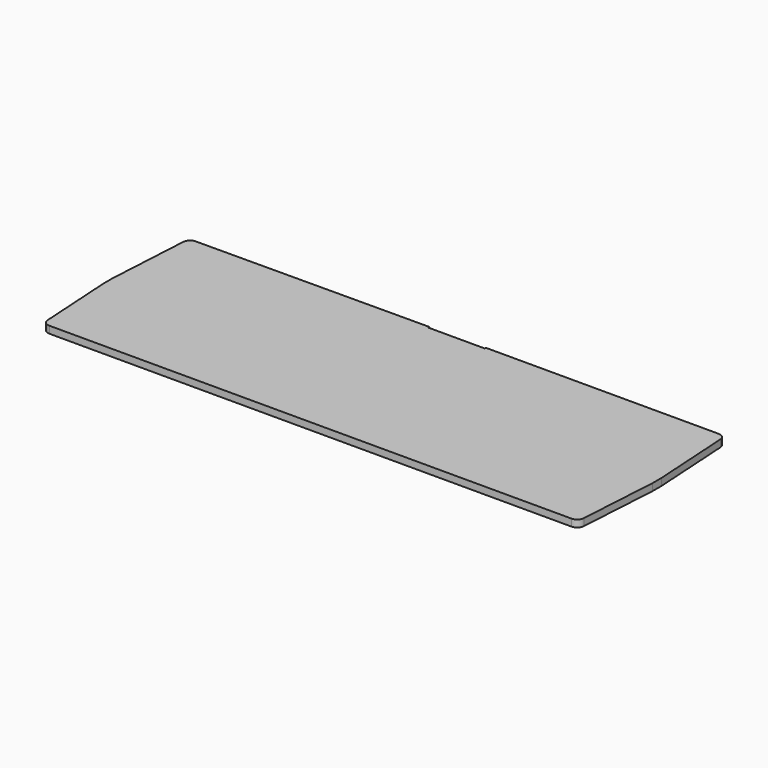
from build123d import *

# Parameters (mm, degrees)
F1_DEPTH = 2.5


with BuildPart() as f1:
    # F0 (on Top) → F1 (new body)
    with BuildSketch(Plane.XY):
        with BuildLine():
            Line((10, 32), (0, 32))
            Line((0, 32), (-10, 32))
            Line((-10, 32), (-10, 32.5))
            Line((-10, 32.5), (-91.037364, 32.141307))
            Line((-91.037364, 32.141307), (-92.348252, 32.141307))
            ThreePointArc((-92.348252, 32.141307), (-94.065235, 31.458439), (-94.84424, 29.782882))
            Line((-94.84424, 29.782882), (-96.5, 0.591573))
            Line((-96.5, 0.591573), (-96.5, -1.408427))
            Line((-96.5, -1.408427), (-96.5, -3.408427))
            Line((-96.5, -3.408427), (-94.864255, -30.152621))
            ThreePointArc((-94.864255, -30.152621), (-94.081875, -31.820927), (-92.368918, -32.5))
            Line((-92.368918, -32.5), (0, -32.5))
            Line((0, -32.5), (92.282775, -32.5))
            ThreePointArc((92.282775, -32.5), (93.995732, -31.820927), (94.778112, -30.152621))
            Line((94.778112, -30.152621), (96.5, -2))
            Line((96.5, -2), (96.5, 0))
            Line((96.5, 0), (96.5, 2))
            Line((96.5, 2), (94.778112, 30.152621))
            ThreePointArc((94.778112, 30.152621), (93.995732, 31.820927), (92.282775, 32.5))
            Line((92.282775, 32.5), (10, 32.5))
            Line((10, 32.5), (10, 32))
        make_face()
    extrude(amount=F1_DEPTH)


solid = f1.part
